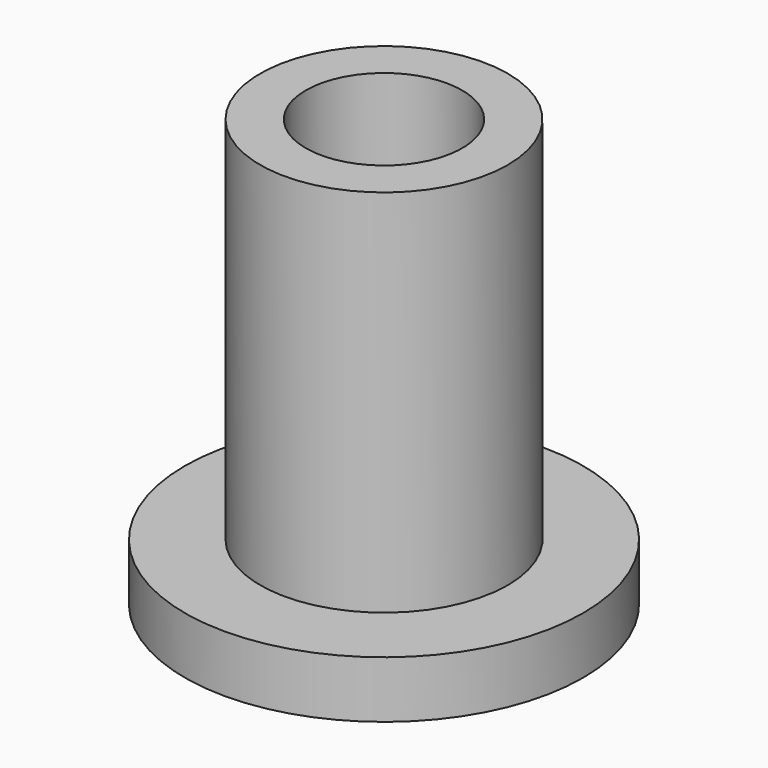
from build123d import *

# Parameters (mm, degrees)
F0_R     = 4.35
F1_DEPTH = 15
F0_R_2   = 7
F2_DEPTH = 2
F3_D     = 5.5


with BuildPart() as f1:
    # F0 (on Top) → F1 (new body)
    with BuildSketch(Plane.XY):
        Circle(F0_R)
    extrude(amount=F1_DEPTH)

    # F0 (on Top) → F2 (join)
    with BuildSketch(Plane.XY):
        Circle(F0_R_2)
        Circle(F0_R, mode=Mode.SUBTRACT)
    extrude(amount=F2_DEPTH)

    # F3 (through all)
    with Locations(Plane(origin=(0, 0, 0), x_dir=(1, 0, 0), z_dir=(0, 0, -1))):
        with Locations((0, 0)):
            Hole(F3_D / 2)


solid = f1.part
